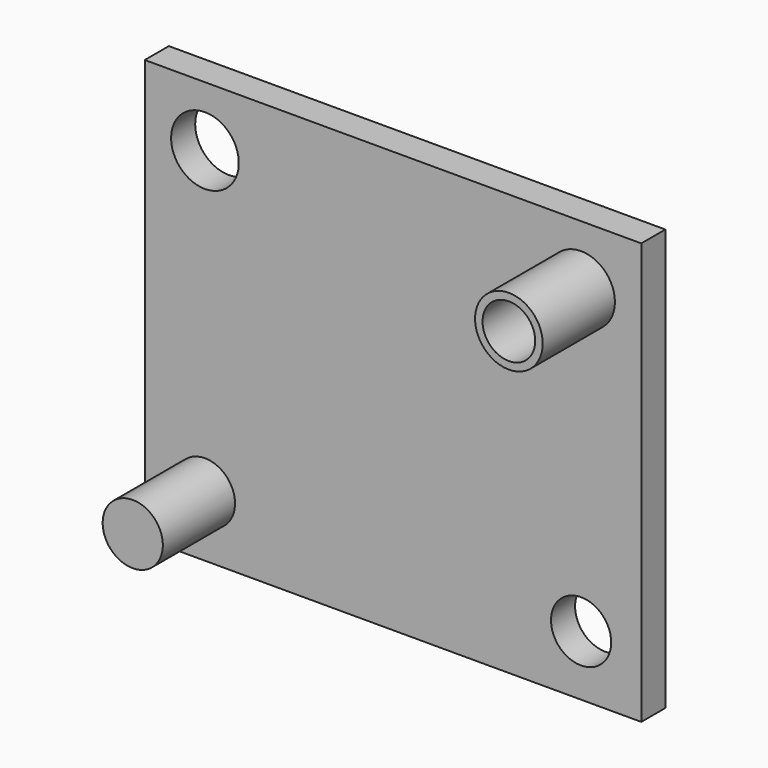
from build123d import *

# Parameters (mm, degrees)
F0_W      = 52.3875
F0_H      = 44.45
F1_DEPTH  = 3.175
F3_DEPTH  = 3.176
F4_R      = 3.5687
F5_DEPTH  = 9.525
F6_R      = 2.778125
F7_DEPTH  = 12.701
F9_DEPTH  = 9.525
F10_R     = 3.175
F11_DEPTH = 3.176


with BuildPart() as f1:
    # F0 (on Front) → F1 (new body)
    with BuildSketch(Plane.XZ):
        with Locations((1.981661, -2.357554)):
            Rectangle(F0_W, F0_H)
    extrude(amount=F1_DEPTH)

    # F2 (on face) → F3 (cut, through all)
    with BuildSketch(Plane.XZ.offset(3.175)):
        with BuildLine():
            ThreePointArc((-14.290214, 13.517446), (-17.862089, 17.089321), (-21.433964, 13.517446))
            ThreePointArc((-21.433964, 13.517446), (-17.862089, 9.945571), (-14.290214, 13.517446))
        make_face()
    extrude(amount=-F3_DEPTH, mode=Mode.SUBTRACT)

    # F4 (on face) → F5 (join)
    with BuildSketch(Plane.XZ.offset(3.175)):
        with Locations((21.825411, 13.517446)):
            Circle(F4_R)
    extrude(amount=F5_DEPTH)

    # F6 (on face) → F7 (cut, through all)
    with BuildSketch(Plane.XZ.offset(12.7)):
        with Locations((21.825411, 13.517446)):
            Circle(F6_R)
    extrude(amount=-F7_DEPTH, mode=Mode.SUBTRACT)

    # F8 (on face) → F9 (join)
    with BuildSketch(Plane.XZ.offset(3.175)):
        with BuildLine():
            ThreePointArc((-14.687089, -18.232554), (-17.862089, -15.057554), (-21.037089, -18.232554))
            ThreePointArc((-21.037089, -18.232554), (-17.862089, -21.407554), (-14.687089, -18.232554))
        make_face()
    extrude(amount=F9_DEPTH)

    # F10 (on face) → F11 (cut, through all)
    with BuildSketch(Plane.XZ.offset(3.175)):
        with Locations((21.825411, -18.232554)):
            Circle(F10_R)
    extrude(amount=-F11_DEPTH, mode=Mode.SUBTRACT)


solid = f1.part
